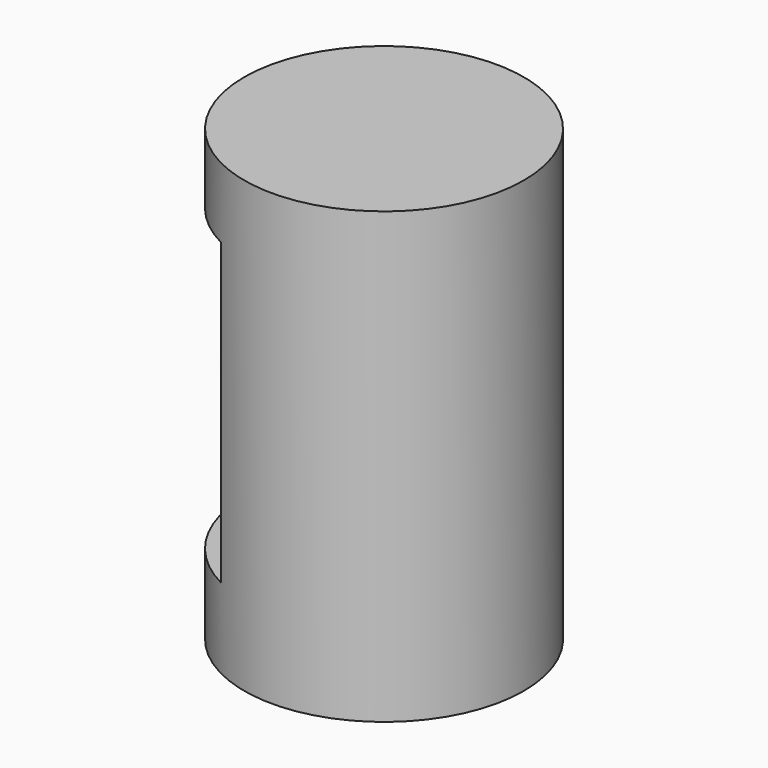
from build123d import *

# Parameters (mm, degrees)
CYLINDER003_R     = 12.51
CYLINDER003_DEPTH = 30
CYLINDER002_R     = 12.51
CYLINDER002_DEPTH = 32
CYLINDER001_R     = 14
CYLINDER001_DEPTH = 45


with BuildPart() as cylinder003:
    # Cylinder003 → Cylinder003 (new body)
    with BuildSketch(Plane(origin=(-7, 0, -37), x_dir=(-1, 0, 0), z_dir=(0, 0, 1))):
        Circle(CYLINDER003_R)
    extrude(amount=CYLINDER003_DEPTH)


with BuildPart() as cylinder002:
    # Cylinder002 → Cylinder002 (new body)
    with BuildSketch(Plane(origin=(0, 0, -39), x_dir=(-1, 0, 0), z_dir=(0, 0, 1))):
        Circle(CYLINDER002_R)
    extrude(amount=CYLINDER002_DEPTH)


with BuildPart() as cut001:
    # Cylinder001 → Cylinder001 (new body)
    with BuildSketch(Plane(origin=(0, 0, 0), x_dir=(1, 0, 0), z_dir=(0, 0, -1))):
        Circle(CYLINDER001_R)
    extrude(amount=CYLINDER001_DEPTH)

    # Cut: cut Cylinder002
    add(cylinder002.part, mode=Mode.SUBTRACT)

    # Cut001: cut Cylinder003
    add(cylinder003.part, mode=Mode.SUBTRACT)


solid = cut001.part
